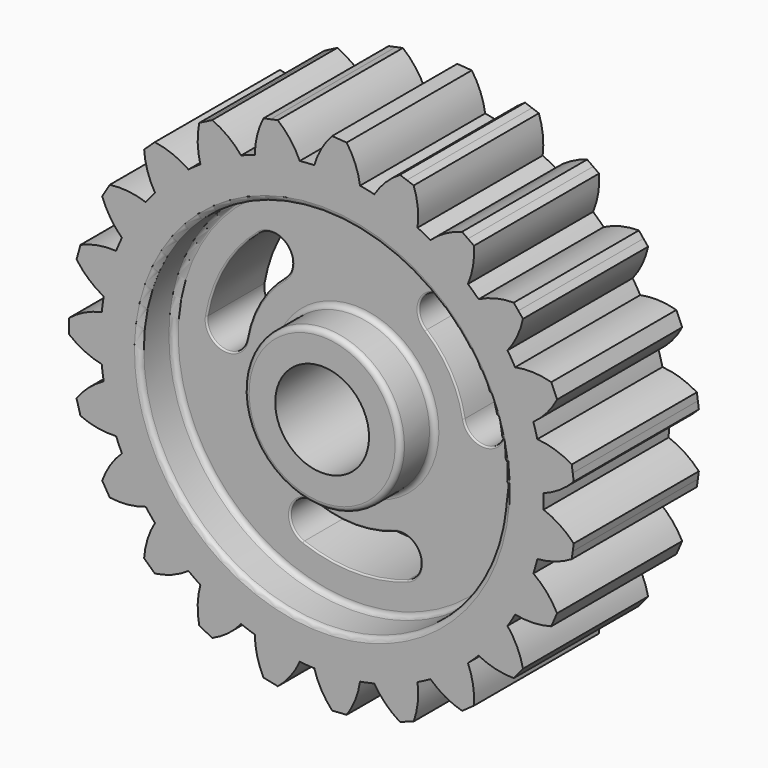
from build123d import *

# Parameters (mm, degrees)
F2_R     = 9
F3_DEPTH = 35.8
F5_DEPTH = 30
F7_DEPTH = 25
F8_R     = 1
F9_R     = 1
F10_R    = 0.3


with BuildPart() as f1:
    # F0 (on Right) → F1 (revolve)
    with BuildSketch(Plane.YZ):
        Polygon((-15, 15), (-15, 0), (15, 0), (15, 15), (7, 15), (7, 35), (15, 35), (15, 42.5), (-15, 42.5), (-15, 35), (-7, 35), (-7, 15), align=None)
    revolve(axis=Axis((0, 0, 0), (0, 1, 0)))

    # F2 (on face) → F3 (cut)
    with BuildSketch(Plane.XZ.offset(15)):
        Circle(F2_R)
    extrude(amount=-F3_DEPTH, mode=Mode.SUBTRACT)

    # F4 (on face) → F5 (join, through all)
    with BuildSketch(Plane.XZ.offset(15)):
        with BuildLine():
            ThreePointArc((-39.516969493, -15.6415831069), (-40.9239847123, -11.4663627742), (-41.8911810792, -7.1679109782))
            ThreePointArc((-41.8911810792, -7.1679109782), (-44.7658679581, -9.1505096293), (-47.1042338358, -11.7440722535))
            Line((-47.1042338358, -11.7440722535), (-46.7265183562, -13.0921564558))
            Line((-46.7265183562, -13.0921564558), (-46.3488028766, -14.440240658))
            ThreePointArc((-46.3488028766, -14.440240658), (-43.0032841828, -15.4412535116), (-39.516969493, -15.6415831069))
        make_face()
        with BuildLine():
            Line((-48.525993842, 1.4), (-48.525993842, 0))
            Line((-48.525993842, 0), (-48.525993842, -1.4))
            ThreePointArc((-48.525993842, -1.4), (-45.5746060924, -3.266502723), (-42.2716216864, -4.4))
            ThreePointArc((-42.2716216864, -4.4), (-42.5, 0), (-42.2716216864, 4.4))
            ThreePointArc((-42.2716216864, 4.4), (-45.5746060924, 3.266502723), (-48.525993842, 1.4))
        make_face()
        with BuildLine():
            ThreePointArc((-47.1042338358, 11.7440722535), (-44.7658679581, 9.1505096293), (-41.8911810792, 7.1679109782))
            ThreePointArc((-41.8911810792, 7.1679109782), (-40.9239847123, 11.4663627742), (-39.516969493, 15.6415831069))
            ThreePointArc((-39.516969493, 15.6415831069), (-43.0032841828, 15.4412535116), (-46.3488028766, 14.440240658))
            Line((-46.3488028766, 14.440240658), (-46.7265183562, 13.0921564558))
            Line((-46.7265183562, 13.0921564558), (-47.1042338358, 11.7440722535))
        make_face()
        with BuildLine():
            ThreePointArc((-42.1889682936, 24.0171403935), (-40.6370501876, 20.8888705433), (-38.4038632107, 18.2042107902))
            ThreePointArc((-38.4038632107, 18.2042107902), (-36.3128246932, 22.0823178765), (-33.8315244504, 25.7231015502))
            ThreePointArc((-33.8315244504, 25.7231015502), (-37.2426054123, 26.4707971664), (-40.7341332335, 26.4095147262))
            Line((-40.7341332335, 26.4095147262), (-41.4615507635, 25.2133275598))
            Line((-41.4615507635, 25.2133275598), (-42.1889682936, 24.0171403935))
        make_face()
        with BuildLine():
            ThreePointArc((-34.1447399747, 34.5089671016), (-33.4943683067, 31.0779994892), (-32.0683064938, 27.8903875666))
            ThreePointArc((-32.0683064938, 27.8903875666), (-29.0085085868, 31.0605284818), (-25.6369500082, 33.896855227))
            ThreePointArc((-25.6369500082, 33.896855227), (-28.719812972, 35.5371228911), (-32.0983992747, 36.4201159026))
            Line((-32.0983992747, 36.4201159026), (-33.1215696247, 35.4645415021))
            Line((-33.1215696247, 35.4645415021), (-34.1447399747, 34.5089671016))
        make_face()
        with BuildLine():
            ThreePointArc((-23.5681524936, 42.4414215878), (-23.8675623551, 38.9622153855), (-23.3543901871, 35.5080618873))
            ThreePointArc((-23.3543901871, 35.5080618873), (-19.5527641036, 37.7351217821), (-15.5410002652, 39.5566342193))
            ThreePointArc((-15.5410002652, 39.5566342193), (-18.0670033879, 41.9678227825), (-21.0820738821, 43.7296036934))
            Line((-21.0820738821, 43.7296036934), (-22.3251131879, 43.0855126406))
            Line((-22.3251131879, 43.0855126406), (-23.5681524936, 42.4414215878))
        make_face()
        with BuildLine():
            ThreePointArc((-11.2436229593, 47.2261899914), (-12.4706084905, 43.9567820068), (-12.9083855994, 40.4922656963))
            ThreePointArc((-12.9083855994, 40.4922656963), (-8.6468805547, 41.6110737265), (-4.2924456278, 42.2826786111))
            ThreePointArc((-4.2924456278, 42.2826786111), (-6.0742468136, 45.2859612481), (-8.5021875138, 47.795866828))
            Line((-8.5021875138, 47.795866828), (-9.8729052365, 47.5110284097))
            Line((-9.8729052365, 47.5110284097), (-11.2436229593, 47.2261899914))
        make_face()
        with BuildLine():
            ThreePointArc((1.9147946538, 48.5084079288), (-0.1487666433, 45.6912751957), (-1.5050251037, 42.4733433984))
            ThreePointArc((-1.5050251037, 42.4733433984), (2.900302568, 42.4009226906), (7.2744600652, 41.8728101608))
            ThreePointArc((7.2744600652, 41.8728101608), (6.3690088591, 45.2454471375), (4.7082672076, 48.3173291714))
            Line((4.7082672076, 48.3173291714), (3.3115309307, 48.4128685501))
            Line((3.3115309307, 48.4128685501), (1.9147946538, 48.5084079288))
        make_face()
        with BuildLine():
            ThreePointArc((14.9312007071, 46.1929791614), (12.1841085452, 44.0370555269), (10.0099562189, 41.3043675233))
            ThreePointArc((10.0099562189, 41.3043675233), (14.2323835173, 40.04608919), (18.3018523335, 38.3574269362))
            ThreePointArc((18.3018523335, 38.3574269362), (18.339904281, 41.8492851968), (17.569531289, 45.2553162473))
            Line((17.569531289, 45.2553162473), (16.250365998, 45.7241477043))
            Line((16.250365998, 45.7241477043), (14.9312007071, 46.1929791614))
        make_face()
        with BuildLine():
            ThreePointArc((26.8402279095, 40.4516284483), (23.6133441415, 39.1168089058), (20.7825448812, 37.0720356638))
            ThreePointArc((20.7825448812, 37.0720356638), (24.5089136899, 34.7212204529), (27.9718799397, 31.9972488292))
            ThreePointArc((27.9718799397, 31.9972488292), (28.9506129018, 35.3493532208), (29.12774361, 38.8369235464))
            Line((29.12774361, 38.8369235464), (27.9839857598, 39.6442759973))
            Line((27.9839857598, 39.6442759973), (26.8402279095, 40.4516284483))
        make_face()
        with BuildLine():
            ThreePointArc((36.7586381939, 31.7101655071), (33.2912860267, 31.2954475157), (30.0137872635, 30.0902405125))
            ThreePointArc((30.0137872635, 30.0902405125), (32.9677298549, 26.8212376339), (35.5673611736, 23.2639811543))
            ThreePointArc((35.5673611736, 23.2639811543), (37.4141870039, 26.227721429), (38.525684438, 29.5381738932))
            Line((38.525684438, 29.5381738932), (37.6421613159, 30.6241697001))
            Line((37.6421613159, 30.6241697001), (36.7586381939, 31.7101655071))
        make_face()
        with BuildLine():
            ThreePointArc((43.9508284429, 20.6169046546), (40.5001655248, 21.1530459505), (37.0190443484, 20.8767898761))
            ThreePointArc((37.0190443484, 20.8767898761), (38.981480314, 16.9320463185), (40.5249739391, 12.8053304228))
            ThreePointArc((40.5249739391, 12.8053304228), (43.1029220145, 15.1608995226), (45.0663514945, 18.0487130104))
            Line((45.0663514945, 18.0487130104), (44.5085899687, 19.3328088325))
            Line((44.5085899687, 19.3328088325), (43.9508284429, 20.6169046546))
        make_face()
        with BuildLine():
            ThreePointArc((47.883386808, 7.9945823), (44.7053330219, 9.4418197359), (41.2787682649, 10.1150032395))
            ThreePointArc((41.2787682649, 10.1150032395), (42.1041527065, 5.7870825866), (42.4770347769, 1.3969669143))
            ThreePointArc((42.4770347769, 1.3969669143), (45.594910482, 2.9696630551), (48.2646534255, 5.2206616511))
            Line((48.2646534255, 5.2206616511), (48.0740201167, 6.6076219755))
            Line((48.0740201167, 6.6076219755), (47.883386808, 7.9945823))
        make_face()
        with BuildLine():
            ThreePointArc((42.4770347769, -1.3969669143), (42.1041527065, -5.7870825866), (41.2787682649, -10.1150032395))
            ThreePointArc((41.2787682649, -10.1150032395), (44.7053330219, -9.4418197359), (47.883386808, -7.9945823))
            Line((47.883386808, -7.9945823), (48.0740201167, -6.6076219755))
            Line((48.0740201167, -6.6076219755), (48.2646534255, -5.2206616511))
            ThreePointArc((48.2646534255, -5.2206616511), (45.594910482, -2.9696630551), (42.4770347769, -1.3969669143))
        make_face()
        with BuildLine():
            ThreePointArc((40.5249739391, -12.8053304228), (38.981480314, -16.9320463185), (37.0190443484, -20.8767898761))
            ThreePointArc((37.0190443484, -20.8767898761), (40.5001655248, -21.1530459505), (43.9508284429, -20.6169046546))
            Line((43.9508284429, -20.6169046546), (44.5085899687, -19.3328088325))
            Line((44.5085899687, -19.3328088325), (45.0663514945, -18.0487130104))
            ThreePointArc((45.0663514945, -18.0487130104), (43.1029220145, -15.1608995226), (40.5249739391, -12.8053304228))
        make_face()
        with BuildLine():
            ThreePointArc((35.5673611736, -23.2639811543), (32.9677298549, -26.8212376339), (30.0137872635, -30.0902405125))
            ThreePointArc((30.0137872635, -30.0902405125), (33.2912860267, -31.2954475157), (36.7586381939, -31.7101655071))
            Line((36.7586381939, -31.7101655071), (37.6421613159, -30.6241697001))
            Line((37.6421613159, -30.6241697001), (38.525684438, -29.5381738932))
            ThreePointArc((38.525684438, -29.5381738932), (37.4141870039, -26.227721429), (35.5673611736, -23.2639811543))
        make_face()
        with BuildLine():
            ThreePointArc((27.9718799397, -31.9972488292), (24.5089136899, -34.7212204529), (20.7825448812, -37.0720356638))
            ThreePointArc((20.7825448812, -37.0720356638), (23.6133441415, -39.1168089058), (26.8402279095, -40.4516284483))
            Line((26.8402279095, -40.4516284483), (27.9839857598, -39.6442759973))
            Line((27.9839857598, -39.6442759973), (29.12774361, -38.8369235464))
            ThreePointArc((29.12774361, -38.8369235464), (28.9506129018, -35.3493532208), (27.9718799397, -31.9972488292))
        make_face()
        with BuildLine():
            ThreePointArc((18.3018523335, -38.3574269362), (14.2323835173, -40.04608919), (10.0099562189, -41.3043675233))
            ThreePointArc((10.0099562189, -41.3043675233), (12.1841085452, -44.0370555269), (14.9312007071, -46.1929791614))
            Line((14.9312007071, -46.1929791614), (16.250365998, -45.7241477043))
            Line((16.250365998, -45.7241477043), (17.569531289, -45.2553162473))
            ThreePointArc((17.569531289, -45.2553162473), (18.339904281, -41.8492851968), (18.3018523335, -38.3574269362))
        make_face()
        with BuildLine():
            ThreePointArc((7.2744600652, -41.8728101608), (2.900302568, -42.4009226906), (-1.5050251037, -42.4733433984))
            ThreePointArc((-1.5050251037, -42.4733433984), (-0.1487666433, -45.6912751957), (1.9147946538, -48.5084079288))
            Line((1.9147946538, -48.5084079288), (3.3115309307, -48.4128685501))
            Line((3.3115309307, -48.4128685501), (4.7082672076, -48.3173291714))
            ThreePointArc((4.7082672076, -48.3173291714), (6.3690088591, -45.2454471375), (7.2744600652, -41.8728101608))
        make_face()
        with BuildLine():
            ThreePointArc((-4.2924456278, -42.2826786111), (-8.6468805547, -41.6110737265), (-12.9083855994, -40.4922656963))
            ThreePointArc((-12.9083855994, -40.4922656963), (-12.4706084905, -43.9567820068), (-11.2436229593, -47.2261899914))
            Line((-11.2436229593, -47.2261899914), (-9.8729052365, -47.5110284097))
            Line((-9.8729052365, -47.5110284097), (-8.5021875138, -47.795866828))
            ThreePointArc((-8.5021875138, -47.795866828), (-6.0742468136, -45.2859612481), (-4.2924456278, -42.2826786111))
        make_face()
        with BuildLine():
            ThreePointArc((-15.5410002652, -39.5566342193), (-19.5527641036, -37.7351217821), (-23.3543901871, -35.5080618873))
            ThreePointArc((-23.3543901871, -35.5080618873), (-23.8675623551, -38.9622153855), (-23.5681524936, -42.4414215878))
            Line((-23.5681524936, -42.4414215878), (-22.3251131879, -43.0855126406))
            Line((-22.3251131879, -43.0855126406), (-21.0820738821, -43.7296036934))
            ThreePointArc((-21.0820738821, -43.7296036934), (-18.0670033879, -41.9678227825), (-15.5410002652, -39.5566342193))
        make_face()
        with BuildLine():
            ThreePointArc((-4.2924456278, -42.2826786111), (-8.6468805547, -41.6110737265), (-12.9083855994, -40.4922656963))
            ThreePointArc((-12.9083855994, -40.4922656963), (-12.4706084905, -43.9567820068), (-11.2436229593, -47.2261899914))
            Line((-11.2436229593, -47.2261899914), (-9.8729052365, -47.5110284097))
            Line((-9.8729052365, -47.5110284097), (-8.5021875138, -47.795866828))
            ThreePointArc((-8.5021875138, -47.795866828), (-6.0742468136, -45.2859612481), (-4.2924456278, -42.2826786111))
        make_face()
        with BuildLine():
            ThreePointArc((-25.6369500082, -33.896855227), (-29.0085085868, -31.0605284818), (-32.0683064938, -27.8903875666))
            ThreePointArc((-32.0683064938, -27.8903875666), (-33.4943683067, -31.0779994892), (-34.1447399747, -34.5089671016))
            Line((-34.1447399747, -34.5089671016), (-33.1215696247, -35.4645415021))
            Line((-33.1215696247, -35.4645415021), (-32.0983992747, -36.4201159026))
            ThreePointArc((-32.0983992747, -36.4201159026), (-28.719812972, -35.5371228911), (-25.6369500082, -33.896855227))
        make_face()
        with BuildLine():
            ThreePointArc((-33.8315244504, -25.7231015502), (-36.3128246932, -22.0823178765), (-38.4038632107, -18.2042107902))
            ThreePointArc((-38.4038632107, -18.2042107902), (-40.6370501876, -20.8888705433), (-42.1889682936, -24.0171403935))
            Line((-42.1889682936, -24.0171403935), (-41.4615507635, -25.2133275598))
            Line((-41.4615507635, -25.2133275598), (-40.7341332335, -26.4095147262))
            ThreePointArc((-40.7341332335, -26.4095147262), (-37.2426054123, -26.4707971664), (-33.8315244504, -25.7231015502))
        make_face()
    extrude(amount=-F5_DEPTH)

    # F6 (on face) → F7 (cut)
    with BuildSketch(Plane.XZ.offset(7)):
        with BuildLine():
            ThreePointArc((-20.7948659831, 3.5754088919), (-18.2731360199, 10.55), (-13.4938279208, 16.2211777637))
            ThreePointArc((-13.4938279208, 16.2211777637), (-12.9897206039, 21.713524786), (-18.4820676262, 22.2176321029))
            ThreePointArc((-18.4820676262, 22.2176321029), (-25.0281341694, 14.45), (-28.4820676262, 4.8971240273))
            ThreePointArc((-28.4820676262, 4.8971240273), (-25.2993243723, 0.392665638), (-20.7948659831, 3.5754088919))
        make_face()
        with BuildLine():
            ThreePointArc((13.4938279208, 16.2211777637), (18.2731360199, 10.55), (20.7948659831, 3.5754088919))
            ThreePointArc((20.7948659831, 3.5754088919), (25.2993243723, 0.392665638), (28.4820676262, 4.8971240273))
            ThreePointArc((28.4820676262, 4.8971240273), (25.0281341694, 14.45), (18.4820676262, 22.2176321029))
            ThreePointArc((18.4820676262, 22.2176321029), (12.9897206039, 21.713524786), (13.4938279208, 16.2211777637))
        make_face()
        with BuildLine():
            ThreePointArc((-7.3010380623, -19.7965866556), (-12.3096037684, -22.106190424), (-10, -27.1147561302))
            ThreePointArc((-10, -27.1147561302), (0, -28.9), (10, -27.1147561302))
            ThreePointArc((10, -27.1147561302), (12.3096037684, -22.106190424), (7.3010380623, -19.7965866556))
            ThreePointArc((7.3010380623, -19.7965866556), (0, -21.1), (-7.3010380623, -19.7965866556))
        make_face()
    extrude(amount=-F7_DEPTH, mode=Mode.SUBTRACT)

    # F8
    f8_edges = [f1.edges().sort_by_distance(p)[0] for p in [
        (0, -7, -35),
        (0, -15, -35),
        (0, -7, -15),
        (0, 7, -35),
        (0, 15, -35),
        (0, 7, -15),
        (-9, 15, 0),
        (0, 15, -15),
    ]]
    fillet(f8_edges, radius=F8_R)

    # F9
    f9_edges = [f1.edges().sort_by_distance(p)[0] for p in [
        (0, -15, -15),
    ]]
    fillet(f9_edges, radius=F9_R)

    # F10
    f10_edges = [f1.edges().sort_by_distance(p)[0] for p in [
        (25.028134, -7, 14.45),
        (18.273136, -7, 10.55),
        (0, -7, -21.1),
        (0, -7, -28.9),
        (-18.273136, -7, 10.55),
        (-25.028134, -7, 14.45),
        (18.273136, 7, 10.55),
        (25.028134, 7, 14.45),
        (0, 7, -21.1),
        (0, 7, -28.9),
        (-18.273136, 7, 10.55),
        (-25.028134, 7, 14.45),
    ]]
    fillet(f10_edges, radius=F10_R)


solid = f1.part
